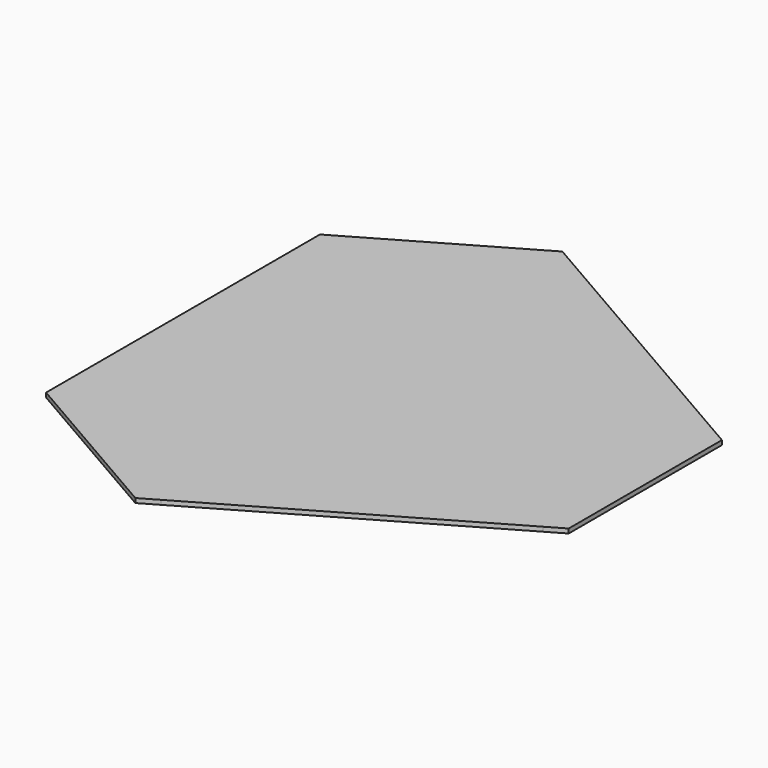
from build123d import *

# Parameters (mm, degrees)
F1_DEPTH = 3.175


with BuildPart() as f1:
    # F0 (on Top) → F1 (new body)
    with BuildSketch(Plane.XY):
        Polygon((-18.594091, -184.605909), (169.170453, -76.2), (169.170453, 76.2), (-18.594091, 184.605909), (-150.576362, 108.405909), (-150.576362, -108.405909), align=None)
        Polygon((-31.294091, -191.938258), (-18.594091, -184.605909), (-150.576362, -108.405909), (-150.576362, -123.070606), align=None)
        Polygon((-150.576362, 108.405909), (-18.594091, 184.605909), (-31.294091, 191.938258), (-150.576362, 123.070606), align=None)
        Polygon((169.170453, 76.2), (169.170453, -76.2), (181.870453, -68.867652), (181.870453, 68.867652), align=None)
    extrude(amount=F1_DEPTH)


solid = f1.part
